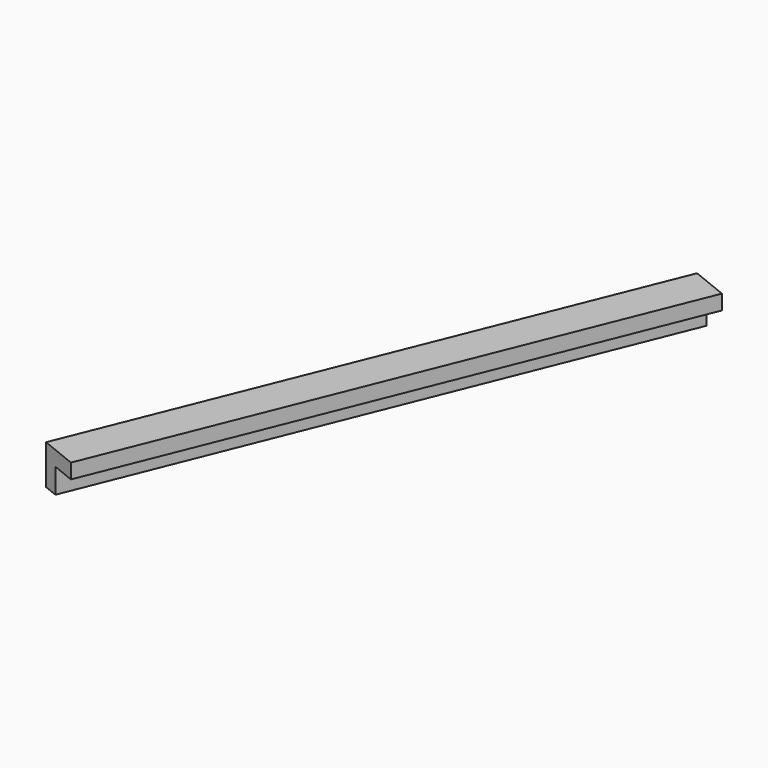
from build123d import *

# Parameters (mm, degrees)
BOX189_W               = 0.8
BOX189_H               = 11.8
BOX189_DEPTH           = 0.8
BOX190_W               = 0.8
BOX190_H               = 11.8
BOX190_DEPTH           = 0.8
CUT098_PLACEMENT_ANGLE = 158


with BuildPart() as cubo189:
    # Box189 → Box189 (new body)
    with BuildSketch(Plane.XY):
        with Locations((0.4, 5.9)):
            Rectangle(BOX189_W, BOX189_H)
    extrude(amount=BOX189_DEPTH)


with BuildPart() as obj1:
    # Box190 → Box190 (new body)
    with BuildSketch(Plane(origin=(0.3, 0, 0.3), x_dir=(1, 0, 0), z_dir=(0, 0, 1))):
        with Locations((0.4, 5.9)):
            Rectangle(BOX190_W, BOX190_H)
    extrude(amount=BOX190_DEPTH)

    # Cut098: cut Cubo189
    add(cubo189.part, mode=Mode.SUBTRACT)


with BuildPart() as obj1_1:
    # Cut098 placement: moved
    add(obj1.part.moved(Location((-117, 201.5, -1.45))).rotate(Axis((-117, 201.5, -1.45), (0, 0, 1)), CUT098_PLACEMENT_ANGLE))


solid = obj1_1.part
